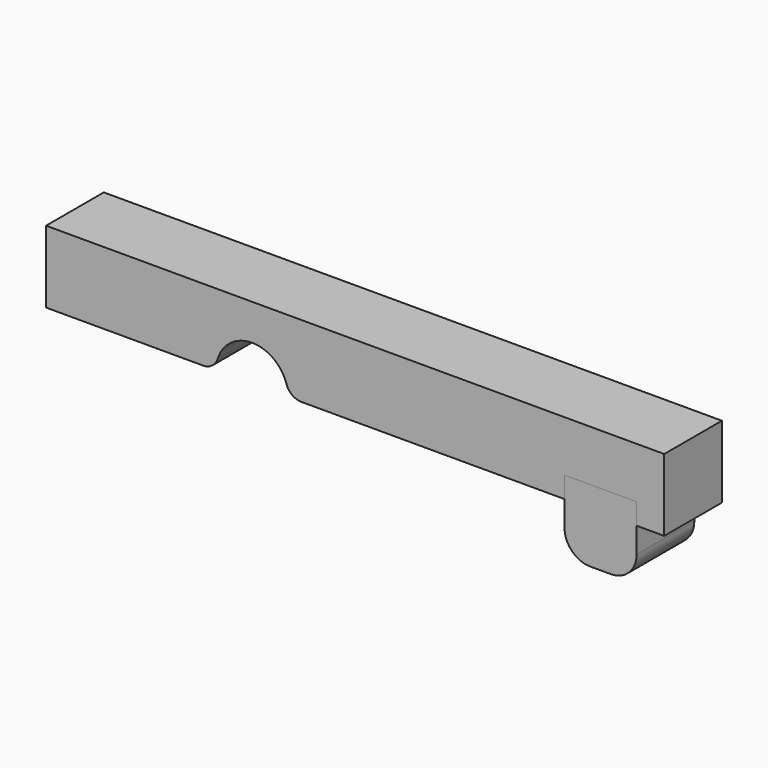
from build123d import *

# Parameters (mm, degrees)
F0_W     = 120
F0_H     = 14
F1_DEPTH = 14
F2_R     = 7
F3_DEPTH = 14.001
F4_R     = 3
F5_W     = 14
F5_H     = 14
F6_DEPTH = 14.001
F7_DEPTH = 14
F8_R     = 5


with BuildPart() as f1:
    # F0 (on Front) → F1 (new body)
    with BuildSketch(Plane.XZ):
        Rectangle(F0_W, F0_H)
    extrude(amount=F1_DEPTH)

    # F2 (on face) → F3 (cut, through all)
    with BuildSketch(Plane.XZ.offset(14)):
        with Locations((-20, -7)):
            Circle(F2_R)
    extrude(amount=-F3_DEPTH, mode=Mode.SUBTRACT)

    # F4
    f4_edges = [f1.edges().sort_by_distance(p)[0] for p in [
        (-27, -7, -7),
        (-13, -7, -7),
    ]]
    fillet(f4_edges, radius=F4_R)

    # F5 (on face) → F6 (cut, through all)
    with BuildSketch(Plane.XZ.offset(14)):
        with Locations((47.645159781, -9.9)):
            Rectangle(F5_W, F5_H)
    extrude(amount=-F6_DEPTH, mode=Mode.SUBTRACT)


with BuildPart() as f7:
    # F5 (on face) → F7 (new body)
    with BuildSketch(Plane.XZ.offset(14)):
        with Locations((47.645159781, -9.9)):
            Rectangle(F5_W, F5_H)
    extrude(amount=-F7_DEPTH)

    # F8
    f8_edges = [f7.edges().sort_by_distance(p)[0] for p in [
        (54.64516, -7, -16.9),
        (40.64516, -7, -16.9),
    ]]
    fillet(f8_edges, radius=F8_R)


solid = Compound([f1.part, f7.part])
